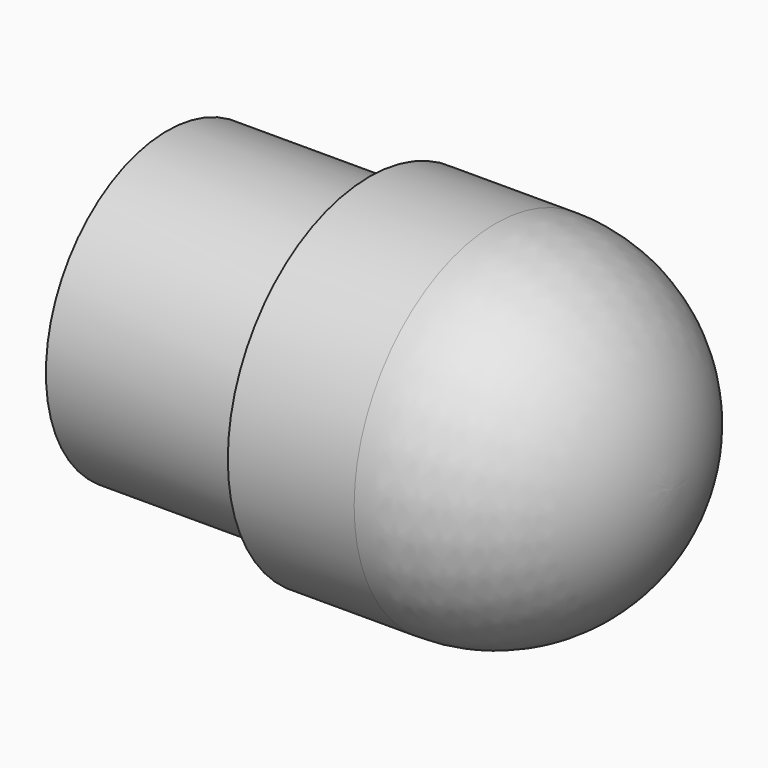
from build123d import *

# Parameters (mm, degrees)
F0_W = 20
F0_H = 15


with BuildPart() as f1:
    # F0 (on Top) → F1 (revolve)
    with BuildSketch(Plane.XY):
        with Locations((10, 7.5)):
            Rectangle(F0_W, F0_H)
        Polygon((20, 15), (20, 0), (32.5, 0), (32.5, 17.5), (20, 17.5), align=None)
        with BuildLine():
            Line((32.5, 17.5), (32.5, 0))
            Line((32.5, 0), (50, 0))
            ThreePointArc((50, 0), (44.874369, 12.374369), (32.5, 17.5))
        make_face()
    revolve(axis=Axis((10, 0, 0), (1, 0, 0)))


solid = f1.part
